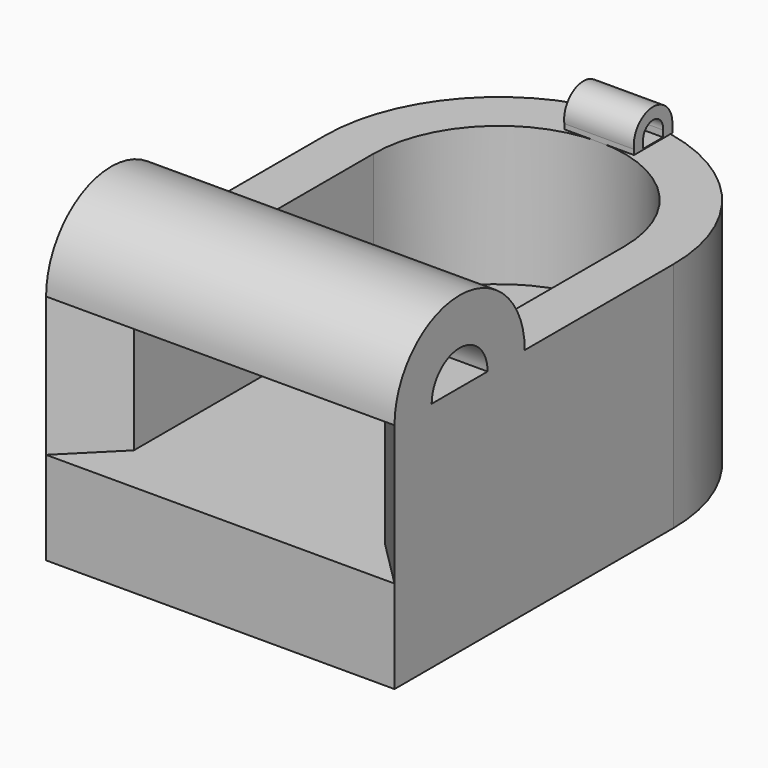
from build123d import *

# Parameters (mm, degrees)
F0_W     = 15
F0_H     = 15
F1_DEPTH = 10
F3_DEPTH = 6
F5_DEPTH = 15
F8_DEPTH = 3


with BuildPart() as f1:
    # F0 (on Top) → F1 (new body)
    with BuildSketch(Plane.XY):
        with BuildLine():
            ThreePointArc((-1.906250203, 9.464154976), (-9.406250203, 16.964154976), (-16.906250203, 9.464154976))
            Line((-16.906250203, 9.464154976), (-1.906250203, 9.464154976))
        make_face()
        with Locations((-9.406250203, 1.964154976)):
            Rectangle(F0_W, F0_H)
    extrude(amount=F1_DEPTH)

    # F2 (on face) → F3 (cut)
    with BuildSketch(Plane.XY.offset(10)):
        with BuildLine():
            ThreePointArc((-4.006250203, 9.464154976), (-9.406250203, 14.864154976), (-14.806250203, 9.464154976))
            Line((-14.806250203, 9.464154976), (-14.806250203, -3.435845024))
            Line((-14.806250203, -3.435845024), (-16.906250203, -5.535845024))
            Line((-16.906250203, -5.535845024), (-1.906250203, -5.535845024))
            Line((-1.906250203, -5.535845024), (-4.006250203, -3.435845024))
            Line((-4.006250203, -3.435845024), (-4.006250203, 9.464154976))
        make_face()
    extrude(amount=-F3_DEPTH, mode=Mode.SUBTRACT)

    # F4 (on face) → F5 (join, through all)
    with BuildSketch(Plane(origin=(-16.906250203, 0, 0), x_dir=(0, -1, 0), z_dir=(-1, 0, 0))):
        with BuildLine():
            Line((3.5358449577, 10), (5.535845024, 10))
            ThreePointArc((5.535845024, 10), (2.0319389684, 13.5039060556), (-1.4719670871, 10))
            Line((-1.4719670871, 10), (0.5280329792, 10))
            ThreePointArc((0.5280329792, 10), (2.0319389684, 11.5039059892), (3.5358449577, 10))
        make_face()
    extrude(amount=-F5_DEPTH)


with BuildPart() as f8:
    # F7 (on offset) → F8 (new body)
    with BuildSketch(Plane(origin=(-10.906250203, 0, 0), x_dir=(0, -1, 0), z_dir=(-1, 0, 0))):
        with BuildLine():
            Line((-14.8514312825, 9.9982069805), (-14.8514312825, 10.2163447095))
            ThreePointArc((-14.8514312825, 10.2163447095), (-15.854696957, 11.4125768297), (-16.9100019791, 10.2619923655))
            Line((-16.9100019791, 10.2619923655), (-16.9100019791, 9.9924588576))
            Line((-16.9100019791, 9.9924588576), (-14.8514312825, 9.9982069805))
        make_face()
        with BuildLine():
            ThreePointArc((-16.4129423483, 10.3161377574), (-15.865781453, 10.9126997109), (-15.3456022317, 10.2924700861))
            Line((-15.3456022317, 10.2924700861), (-15.3409130871, 10.0394133478))
            Line((-15.3409130871, 10.0394133478), (-16.4129423483, 10.0394133478))
            Line((-16.4129423483, 10.0394133478), (-16.4129423483, 10.3161377574))
        make_face(mode=Mode.SUBTRACT)
    extrude(amount=-F8_DEPTH)


solid = Compound([f1.part, f8.part])
